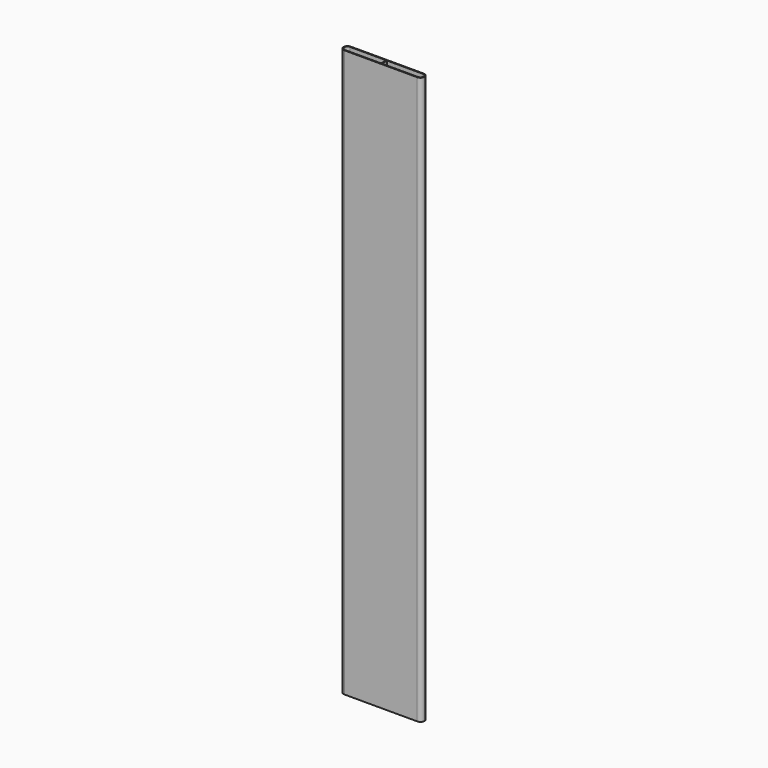
from build123d import *

# Parameters (mm, degrees)
F1_DEPTH = 700


with BuildPart() as f1:
    # F0 (on Top) → F1 (new body)
    with BuildSketch(Plane.XY):
        with BuildLine():
            Line((45, 5), (-45, 5))
            ThreePointArc((-45, 5), (-48.535534, 3.535534), (-50, 0))
            ThreePointArc((-50, 0), (-48.535534, -3.535534), (-45, -5))
            Line((-45, -5), (45, -5))
            ThreePointArc((45, -5), (48.535534, -3.535534), (50, 0))
            ThreePointArc((50, 0), (48.535534, 3.535534), (45, 5))
        make_face()
        with BuildLine():
            ThreePointArc((-49, 0), (-47.828427, 2.828427), (-45, 4))
            Line((-45, 4), (-0.5, 4))
            Line((-0.5, 4), (-0.5, -4))
            Line((-0.5, -4), (-45, -4))
            ThreePointArc((-45, -4), (-47.828427, -2.828427), (-49, 0))
        make_face(mode=Mode.SUBTRACT)
        with BuildLine():
            ThreePointArc((45, 4), (47.828427, 2.828427), (49, 0))
            ThreePointArc((49, 0), (47.828427, -2.828427), (45, -4))
            Line((45, -4), (0.5, -4))
            Line((0.5, -4), (0.5, 4))
            Line((0.5, 4), (45, 4))
        make_face(mode=Mode.SUBTRACT)
    extrude(amount=F1_DEPTH)


solid = f1.part
